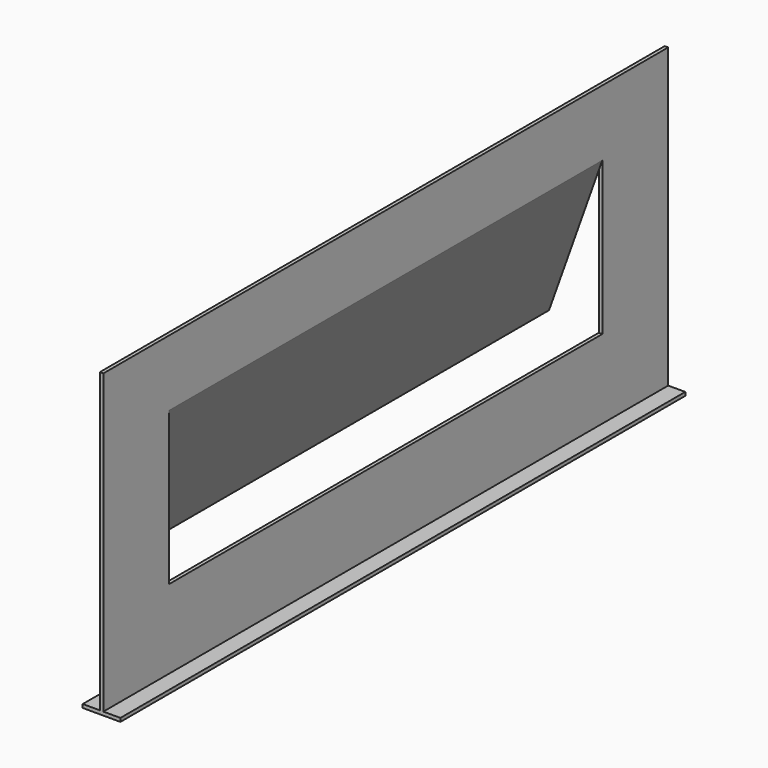
from build123d import *

# Parameters (mm, degrees)
PAD014_DEPTH    = 1500
SKETCH022_W     = 650
SKETCH022_H     = 2300
POCKET005_DEPTH = 87.501
PAD015_DEPTH    = 2300


with BuildPart() as part:
    # Sketch024 → Pad014 (new body, symmetric)
    with BuildSketch(Plane.XZ):
        Polygon((-80, 0), (80, 0), (80, 15), (7.5, 15), (7.5, 1280), (-7.5, 1280), (-7.5, 15), (-80, 15), align=None)
    extrude(amount=PAD014_DEPTH, both=True)

    # Sketch022 (on Face6 of Pad014) → Pocket005 (cut, through all)
    with BuildSketch(Plane(origin=(7.5, 0, 0), x_dir=(0, 0, 1), z_dir=(1, 0, 0))):
        with Locations((675, 0)):
            Rectangle(SKETCH022_W, SKETCH022_H)
    extrude(amount=-POCKET005_DEPTH, mode=Mode.SUBTRACT)

    # Sketch023 (on Face8 of Pocket005) → Pad015 (join)
    with BuildSketch(Plane.XZ.offset(-1150)):
        Polygon((-7.5, 1000), (7.5, 1000), (-218.819013, 365.436732), (-231.59712, 371.666577), align=None)
    extrude(amount=PAD015_DEPTH)


solid = part.part
